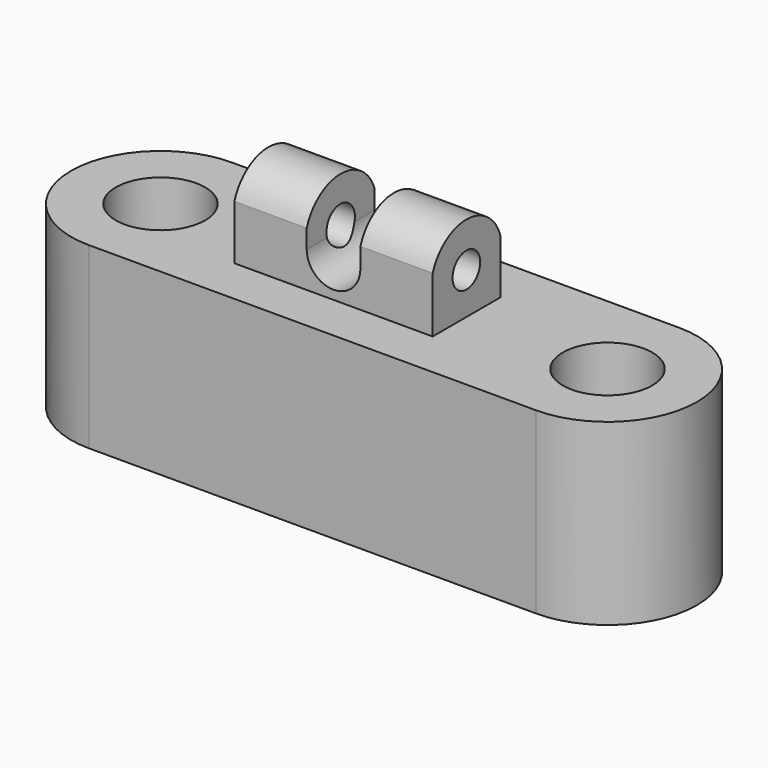
from build123d import *

# Parameters (mm, degrees)
F0_R      = 12.7
F1_DEPTH  = 50.8
F2_W      = 56.316178
F2_H      = 24.083158
F3_DEPTH  = 25.4
F5_DEPTH  = 34.544
F8_DEPTH  = 25.4
F7_R      = 4.89521
F9_DEPTH  = 127
F6_R      = 5.04868
F10_DEPTH = 25.4


with BuildPart() as f1:
    # F0 (on Top) → F1 (new body)
    with BuildSketch(Plane.XY):
        with BuildLine():
            Line((68.180415, 25.4), (-58.776217, 25.4))
            ThreePointArc((-58.776217, 25.4), (-84.176217, 0), (-58.776217, -25.4))
            Line((-58.776217, -25.4), (68.180415, -25.4))
            ThreePointArc((68.180415, -25.4), (93.580415, 0), (68.180415, 25.4))
        make_face()
        with Locations((-58.776217, 0)):
            Circle(F0_R, mode=Mode.SUBTRACT)
        with Locations((68.180415, 0)):
            Circle(F0_R, mode=Mode.SUBTRACT)
    extrude(amount=F1_DEPTH)

    # F2 (on face) → F3 (join)
    with BuildSketch(Plane.XY.offset(50.8)):
        Rectangle(F2_W, F2_H)
    extrude(amount=F3_DEPTH)

    # F4 (on face) → F5 (cut)
    with BuildSketch(Plane.XZ.offset(12.041579)):
        with BuildLine():
            Line((-7.62, 76.2), (-7.62, 60.96))
            ThreePointArc((-7.62, 60.96), (0, 53.34), (7.62, 60.96))
            Line((7.62, 60.96), (7.62, 76.2))
            Line((7.62, 76.2), (-7.62, 76.2))
        make_face()
    extrude(amount=-F5_DEPTH, mode=Mode.SUBTRACT)

    # F7 (on face) → F8 (cut)
    with BuildSketch(Plane.YZ.offset(28.158089)):
        with BuildLine():
            ThreePointArc((-12.041579, 66.644274), (0.202546, 75.187594), (12.041579, 66.09121))
            Line((12.041579, 66.09121), (12.041579, 76.2))
            Line((12.041579, 76.2), (-12.041579, 76.2))
            Line((-12.041579, 76.2), (-12.041579, 66.644274))
        make_face()
    extrude(amount=-F8_DEPTH, mode=Mode.SUBTRACT)

    # F7 (on face) → F9 (cut)
    with BuildSketch(Plane.YZ.offset(28.158089)):
        with Locations((-0.087499, 62.557597)):
            Circle(F7_R)
    extrude(amount=-F9_DEPTH, mode=Mode.SUBTRACT)

    # F6 (on face) → F10 (cut)
    with BuildSketch(Plane(origin=(-28.158089, 0, 0), x_dir=(0, -1, 0), z_dir=(-1, 0, 0))):
        with BuildLine():
            ThreePointArc((-12.041579, 66.459917), (0.065622, 74.940473), (12.041579, 66.275567))
            Line((12.041579, 66.275567), (12.041579, 76.2))
            Line((12.041579, 76.2), (-12.041579, 76.2))
            Line((-12.041579, 76.2), (-12.041579, 66.459917))
        make_face()
        with Locations((-0.031925, 62.197081)):
            Circle(F6_R)
    extrude(amount=-F10_DEPTH, mode=Mode.SUBTRACT)


solid = f1.part
